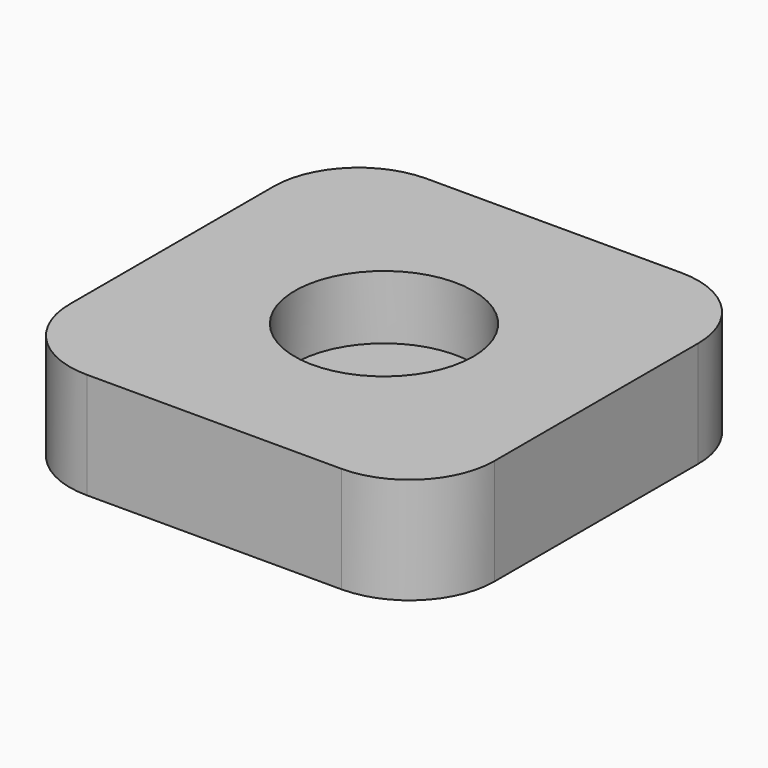
from build123d import *

# Parameters (mm, degrees)
F1_DEPTH = 25
F2_R     = 21
F3_DEPTH = 15
F4_R     = 20
F5_R     = 20
F6_R     = 20


with BuildPart() as f1:
    # F0 (on Top) → F1 (new body)
    with BuildSketch(Plane.XY):
        Polygon((-58.561329, 22.560807), (-108.561329, 72.560807), (-108.561329, -27.439193), align=None)
        Polygon((-8.561329, 72.560807), (-108.561329, 72.560807), (-58.561329, 22.560807), align=None)
        Polygon((-8.561329, -27.439193), (-8.561329, 72.560807), (-58.561329, 22.560807), align=None)
        Polygon((-58.561329, 22.560807), (-108.561329, -27.439193), (-8.561329, -27.439193), align=None)
    extrude(amount=F1_DEPTH)

    # F2 (on face) → F3 (cut)
    with BuildSketch(Plane.XY.offset(25)):
        with Locations((-58.561329, 22.560807)):
            Circle(F2_R)
    extrude(amount=-F3_DEPTH, mode=Mode.SUBTRACT)

    # F4
    f4_edges = [f1.edges().sort_by_distance(p)[0] for p in [
        (-108.561329, -27.439193, 12.5),
    ]]
    fillet(f4_edges, radius=F4_R)

    # F5
    f5_edges = [f1.edges().sort_by_distance(p)[0] for p in [
        (-108.561329, 72.560807, 12.5),
    ]]
    fillet(f5_edges, radius=F5_R)

    # F6
    f6_edges = [f1.edges().sort_by_distance(p)[0] for p in [
        (-8.561329, 72.560807, 12.5),
        (-8.561329, -27.439193, 12.5),
    ]]
    fillet(f6_edges, radius=F6_R)


solid = f1.part
